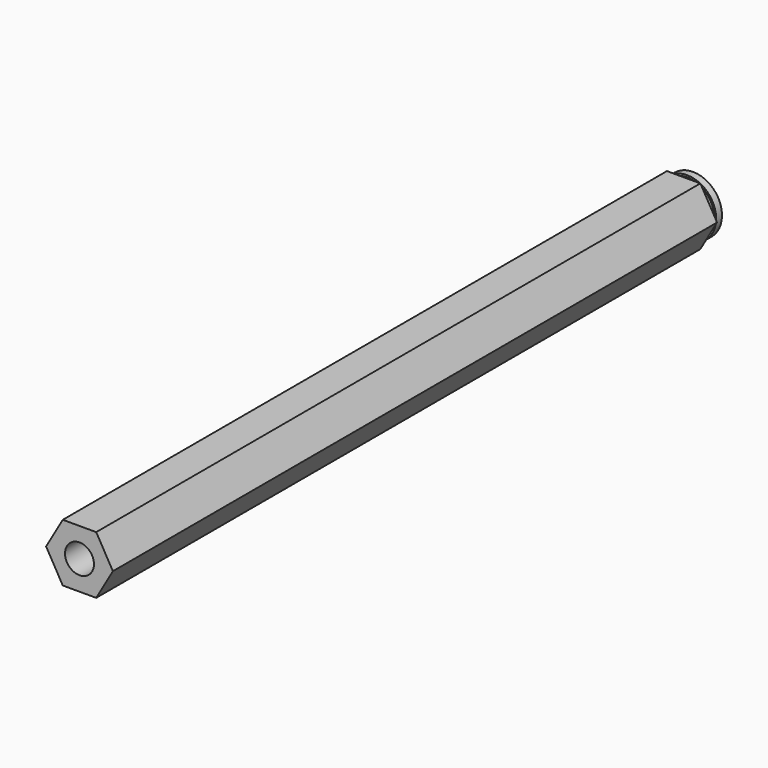
from build123d import *

# Parameters (mm, degrees)
F0_R     = 3.175
F1_DEPTH = 168.275


with BuildPart() as f1:
    # F0 (on Front) → F1 (new body)
    with BuildSketch(Plane.XZ):
        Polygon((3.6661742094, 6.35), (-3.6661742094, 6.35), (-7.3323484187, 0), (-3.6661742094, -6.35), (3.6661742094, -6.35), (7.3323484187, 0), align=None)
        Circle(F0_R, mode=Mode.SUBTRACT)
    extrude(amount=F1_DEPTH)

    # F2 (on Top) → F3 (revolve, cut)
    with BuildSketch(Plane.XY):
        Polygon((-6.35, -1.5875), (-6.35, 0), (-7.3323484187, 0), (-7.3323484187, -2.5781), (-5.9436, -2.5781), (-5.9436, -1.5875), align=None)
    revolve(axis=Axis((0, -1.28905, 0), (0, -1, 0)), mode=Mode.SUBTRACT)


solid = f1.part
